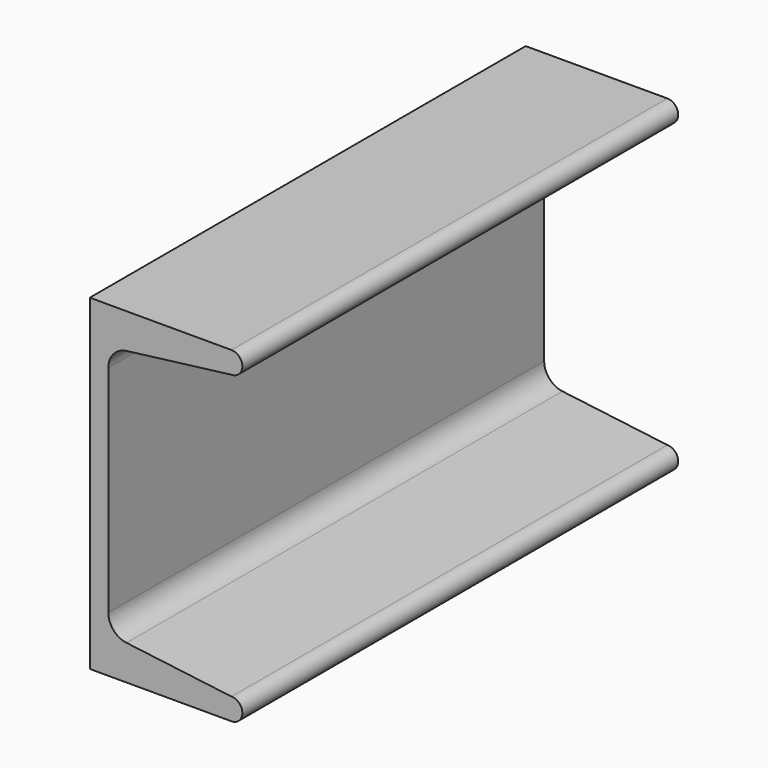
from build123d import *

# Parameters (mm, degrees)
F1_DEPTH = 63.5


with BuildPart() as f1:
    # F0 (on Front) → F1 (new body, symmetric)
    with BuildSketch(Plane.XZ):
        with BuildLine():
            Line((-10.299181, 38.1), (-43.319181, 38.1))
            Line((-43.319181, 38.1), (-43.319181, 0))
            Line((-43.319181, 0), (-43.319181, -38.1))
            Line((-43.319181, -38.1), (-10.299181, -38.1))
            ThreePointArc((-10.299181, -38.1), (-7.759181, -35.56), (-10.299181, -33.02))
            Line((-10.299181, -33.02), (-34.753141, -29.954908))
            ThreePointArc((-34.753141, -29.954908), (-37.787309, -28.351232), (-39.001181, -25.141174))
            Line((-39.001181, -25.141174), (-39.001181, 0))
            Line((-39.001181, 0), (-39.001181, 25.141174))
            ThreePointArc((-39.001181, 25.141174), (-37.787309, 28.351232), (-34.753141, 29.954908))
            Line((-34.753141, 29.954908), (-10.299181, 33.02))
            ThreePointArc((-10.299181, 33.02), (-7.759181, 35.56), (-10.299181, 38.1))
        make_face()
    extrude(amount=F1_DEPTH, both=True)


solid = f1.part
